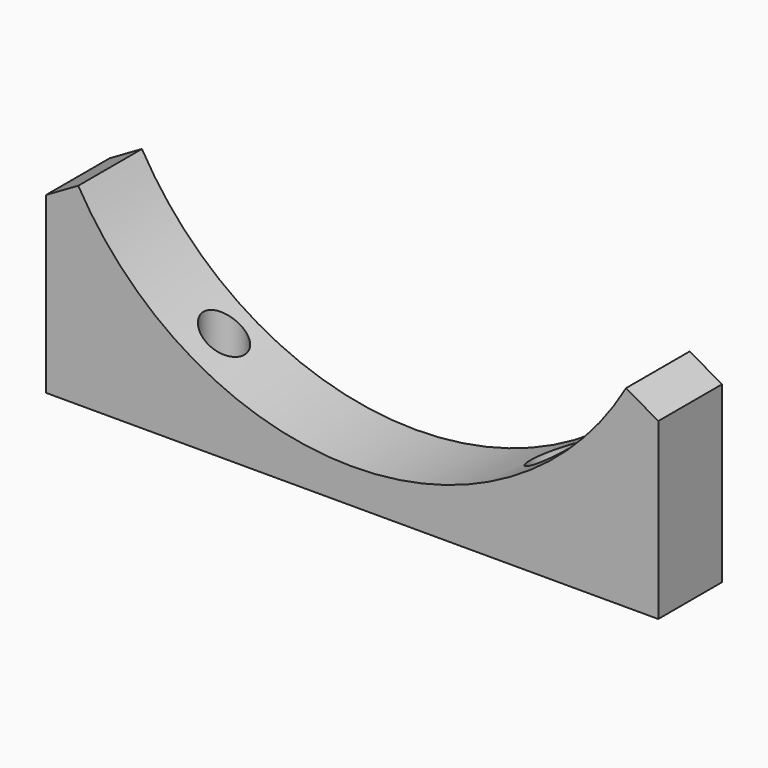
from build123d import *

# Parameters (mm, degrees)
F1_DEPTH = 19.5
F2_R     = 3
F3_DEPTH = 47.251
F5_R     = 5
F6_DEPTH = 24.46


with BuildPart() as f1:
    # F0 (on Front) → F1 (new body)
    with BuildSketch(Plane.XZ):
        with BuildLine():
            Line((-75, 23.333096), (-75, -19.365634))
            Line((-75, -19.365634), (75, -19.365634))
            Line((75, -19.365634), (75, 23.333096))
            Line((75, 23.333096), (67.116969, 27.884366))
            ThreePointArc((67.116969, 27.884366), (0, -10.865634), (-67.116969, 27.884366))
            Line((-67.116969, 27.884366), (-75, 23.333096))
        make_face()
    extrude(amount=F1_DEPTH)

    # F2 (on face) → F3 (cut, through all)
    with BuildSketch(Plane(origin=(0, 0, -19.365634), x_dir=(1, 0, 0), z_dir=(0, 0, -1))):
        with Locations((40, 8.75)):
            Circle(F2_R)
        with Locations((-40, 8.75)):
            Circle(F2_R)
    extrude(amount=-F3_DEPTH, mode=Mode.SUBTRACT)

    # F5 (on offset) → F6 (cut)
    with BuildSketch(Plane.XY.offset(15)):
        with Locations((-40, -8.75)):
            Circle(F5_R)
        with Locations((40, -8.75)):
            Circle(F5_R)
    extrude(amount=-F6_DEPTH, mode=Mode.SUBTRACT)


with BuildPart() as f8_1:
    # F8: copy of F1
    add(f1.part)


solid = Compound([f1.part, f8_1.part])
